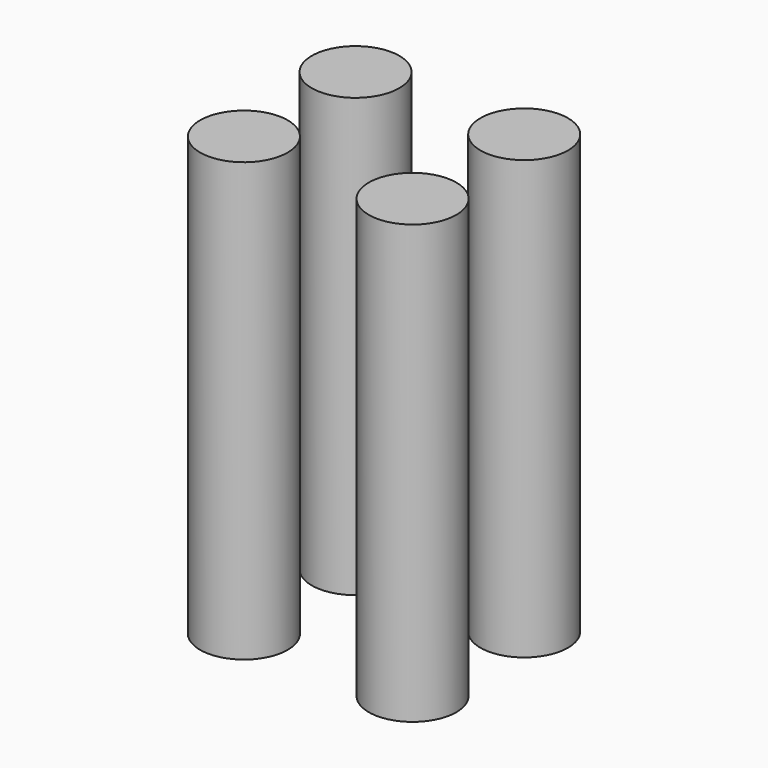
from build123d import *

# Parameters (mm, degrees)
F0_R     = 6.35
F1_DEPTH = 63.5
F2_DEPTH = 63.5


with BuildPart() as f1:
    # F0 (on Top) → F1 (new body)
    with BuildSketch(Plane.XY):
        with Locations((-131.299391, 7.182677)):
            Circle(F0_R)
    extrude(amount=F1_DEPTH)


with BuildPart() as f2:
    # F0 (on Top) → F2 (new body)
    with BuildSketch(Plane.XY):
        with Locations((-106.83988, 7.182677)):
            Circle(F0_R)
        with Locations((-131.299391, -13.054369)):
            Circle(F0_R)
        with Locations((-106.83988, -13.054369)):
            Circle(F0_R)
    extrude(amount=F2_DEPTH)


solid = Compound([f1.part, f2.part])
